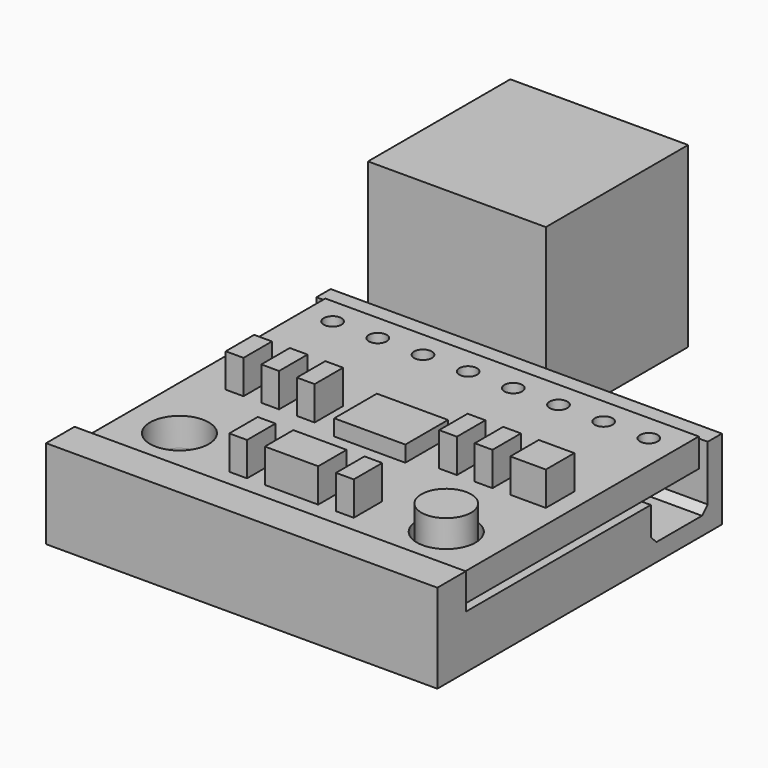
from build123d import *

# Parameters (mm, degrees)
BOX016_W          = 10
BOX016_H          = 10
BOX016_DEPTH      = 10
BOX001_W          = 4
BOX001_H          = 3
BOX001_DEPTH      = 2.5
BOX002_W          = 3
BOX002_H          = 2
BOX002_DEPTH      = 3.5
BOX003_W          = 1
BOX003_H          = 2
BOX003_DEPTH      = 3.5
BOX004_W          = 1
BOX004_H          = 2
BOX004_DEPTH      = 3.5
BOX005_W          = 1
BOX005_H          = 2
BOX005_DEPTH      = 3.5
BOX006_W          = 1
BOX006_H          = 2
BOX006_DEPTH      = 3.5
BOX007_W          = 1
BOX007_H          = 2
BOX007_DEPTH      = 3.5
BOX008_W          = 1
BOX008_H          = 2
BOX008_DEPTH      = 3.5
BOX009_W          = 1
BOX009_H          = 2
BOX009_DEPTH      = 3.5
BOX010_W          = 2
BOX010_H          = 2
BOX010_DEPTH      = 3.5
CYLINDER007_R     = 0.5
CYLINDER007_DEPTH = 10
CYLINDER008_R     = 0.5
CYLINDER008_DEPTH = 10
CYLINDER006_R     = 0.5
CYLINDER006_DEPTH = 10
CYLINDER005_R     = 0.5
CYLINDER005_DEPTH = 10
CYLINDER004_R     = 0.5
CYLINDER004_DEPTH = 10
CYLINDER003_R     = 0.5
CYLINDER003_DEPTH = 10
CYLINDER002_R     = 0.5
CYLINDER002_DEPTH = 10
CYLINDER009_R     = 0.5
CYLINDER009_DEPTH = 10
CYLINDER001_R     = 1.65
CYLINDER001_DEPTH = 10
CYLINDER_R        = 1.65
CYLINDER_DEPTH    = 10
BOX_W             = 21
BOX_H             = 17
BOX_DEPTH         = 1.6
BOX018_W          = 6
BOX018_H          = 10
BOX018_DEPTH      = 10
BOX017_W          = 3.3
BOX017_H          = 10
BOX017_DEPTH      = 10
CYLINDER014_R     = 1.65
CYLINDER014_DEPTH = 10
CYLINDER011_R     = 3
CYLINDER011_DEPTH = 10
CYLINDER012_R     = 1.4
CYLINDER012_DEPTH = 3
CYLINDER013_R     = 1.65
CYLINDER013_DEPTH = 10
BOX014_W          = 16
BOX014_H          = 12
BOX014_DEPTH      = 10
BOX013_W          = 22
BOX013_H          = 4
BOX013_DEPTH      = 5
CHAMFER_SIZE      = 0.4
BOX011_W          = 22
BOX011_H          = 28
BOX011_DEPTH      = 3
BOX012_W          = 22
BOX012_H          = 2
BOX012_DEPTH      = 5
BOX015_W          = 22
BOX015_H          = 1
BOX015_DEPTH      = 1.5
CHAMFER001_SIZE   = 1
CHAMFER002_SIZE   = 0.4
SKETCH_W          = 7
SKETCH_H          = 8
POCKET_DEPTH      = 4.501


with BuildPart() as cube016:
    # Box016 → Box016 (new body)
    with BuildSketch(Plane(origin=(-12.5, 22.5, -4.5), x_dir=(1, 0, 0), z_dir=(0, 0, 1))):
        with Locations((5, 5)):
            Rectangle(BOX016_W, BOX016_H)
    extrude(amount=BOX016_DEPTH)


with BuildPart() as cube001:
    # Box001 → Box001 (new body)
    with BuildSketch(Plane(origin=(-2, 7, 0), x_dir=(1, 0, 0), z_dir=(0, 0, 1))):
        with Locations((2, 1.5)):
            Rectangle(BOX001_W, BOX001_H)
    extrude(amount=BOX001_DEPTH)


with BuildPart() as cube002:
    # Box002 → Box002 (new body)
    with BuildSketch(Plane(origin=(-1.5, 1.5, 0), x_dir=(1, 0, 0), z_dir=(0, 0, 1))):
        with Locations((1.5, 1)):
            Rectangle(BOX002_W, BOX002_H)
    extrude(amount=BOX002_DEPTH)


with BuildPart() as cube003:
    # Box003 → Box003 (new body)
    with BuildSketch(Plane(origin=(-3.5, 1.5, 0), x_dir=(1, 0, 0), z_dir=(0, 0, 1))):
        with Locations((0.5, 1)):
            Rectangle(BOX003_W, BOX003_H)
    extrude(amount=BOX003_DEPTH)


with BuildPart() as cube004:
    # Box004 → Box004 (new body)
    with BuildSketch(Plane(origin=(2.5, 1.5, 0), x_dir=(1, 0, 0), z_dir=(0, 0, 1))):
        with Locations((0.5, 1)):
            Rectangle(BOX004_W, BOX004_H)
    extrude(amount=BOX004_DEPTH)


with BuildPart() as cube005:
    # Box005 → Box005 (new body)
    with BuildSketch(Plane(origin=(-4.5, 7.5, 0), x_dir=(1, 0, 0), z_dir=(0, 0, 1))):
        with Locations((0.5, 1)):
            Rectangle(BOX005_W, BOX005_H)
    extrude(amount=BOX005_DEPTH)


with BuildPart() as cube006:
    # Box006 → Box006 (new body)
    with BuildSketch(Plane(origin=(-6.5, 7.5, 0), x_dir=(1, 0, 0), z_dir=(0, 0, 1))):
        with Locations((0.5, 1)):
            Rectangle(BOX006_W, BOX006_H)
    extrude(amount=BOX006_DEPTH)


with BuildPart() as cube007:
    # Box007 → Box007 (new body)
    with BuildSketch(Plane(origin=(-8.5, 7.5, 0), x_dir=(1, 0, 0), z_dir=(0, 0, 1))):
        with Locations((0.5, 1)):
            Rectangle(BOX007_W, BOX007_H)
    extrude(amount=BOX007_DEPTH)


with BuildPart() as cube008:
    # Box008 → Box008 (new body)
    with BuildSketch(Plane(origin=(3.5, 7.5, 0), x_dir=(1, 0, 0), z_dir=(0, 0, 1))):
        with Locations((0.5, 1)):
            Rectangle(BOX008_W, BOX008_H)
    extrude(amount=BOX008_DEPTH)


with BuildPart() as cube009:
    # Box009 → Box009 (new body)
    with BuildSketch(Plane(origin=(5.5, 7.5, 0), x_dir=(1, 0, 0), z_dir=(0, 0, 1))):
        with Locations((0.5, 1)):
            Rectangle(BOX009_W, BOX009_H)
    extrude(amount=BOX009_DEPTH)


with BuildPart() as cube010:
    # Box010 → Box010 (new body)
    with BuildSketch(Plane(origin=(7.5, 7.5, 0), x_dir=(1, 0, 0), z_dir=(0, 0, 1))):
        with Locations((1, 1)):
            Rectangle(BOX010_W, BOX010_H)
    extrude(amount=BOX010_DEPTH)


with BuildPart() as cylinder007:
    # Cylinder007 → Cylinder007 (new body)
    with BuildSketch(Plane(origin=(6.35, 15, 0), x_dir=(1, 0, 0), z_dir=(0, 0, 1))):
        Circle(CYLINDER007_R)
    extrude(amount=CYLINDER007_DEPTH)


with BuildPart() as cylinder008:
    # Cylinder008 → Cylinder008 (new body)
    with BuildSketch(Plane(origin=(8.89, 15, 0), x_dir=(1, 0, 0), z_dir=(0, 0, 1))):
        Circle(CYLINDER008_R)
    extrude(amount=CYLINDER008_DEPTH)


with BuildPart() as cylinder006:
    # Cylinder006 → Cylinder006 (new body)
    with BuildSketch(Plane(origin=(-6.35, 15, 0), x_dir=(1, 0, 0), z_dir=(0, 0, 1))):
        Circle(CYLINDER006_R)
    extrude(amount=CYLINDER006_DEPTH)


with BuildPart() as cylinder005:
    # Cylinder005 → Cylinder005 (new body)
    with BuildSketch(Plane(origin=(-3.81, 15, 0), x_dir=(1, 0, 0), z_dir=(0, 0, 1))):
        Circle(CYLINDER005_R)
    extrude(amount=CYLINDER005_DEPTH)


with BuildPart() as cylinder004:
    # Cylinder004 → Cylinder004 (new body)
    with BuildSketch(Plane(origin=(3.81, 15, 0), x_dir=(1, 0, 0), z_dir=(0, 0, 1))):
        Circle(CYLINDER004_R)
    extrude(amount=CYLINDER004_DEPTH)


with BuildPart() as cylinder003:
    # Cylinder003 → Cylinder003 (new body)
    with BuildSketch(Plane(origin=(1.27, 15, 0), x_dir=(1, 0, 0), z_dir=(0, 0, 1))):
        Circle(CYLINDER003_R)
    extrude(amount=CYLINDER003_DEPTH)


with BuildPart() as cylinder002:
    # Cylinder002 → Cylinder002 (new body)
    with BuildSketch(Plane(origin=(-1.27, 15, 0), x_dir=(1, 0, 0), z_dir=(0, 0, 1))):
        Circle(CYLINDER002_R)
    extrude(amount=CYLINDER002_DEPTH)


with BuildPart() as fusion001:
    # Cylinder009 → Cylinder009 (new body)
    with BuildSketch(Plane(origin=(-8.89, 15, 0), x_dir=(1, 0, 0), z_dir=(0, 0, 1))):
        Circle(CYLINDER009_R)
    extrude(amount=CYLINDER009_DEPTH)

    # Fusion001: union Cylinder007, Cylinder008, Cylinder006, Cylinder005, Cylinder004, Cylinder003, Cylinder002
    add(cylinder007.part)
    add(cylinder008.part)
    add(cylinder006.part)
    add(cylinder005.part)
    add(cylinder004.part)
    add(cylinder003.part)
    add(cylinder002.part)


with BuildPart() as fusion001_1:
    # Fusion001 placement: moved
    add(fusion001.part.moved(Location((0, 0.5, 0))))


with BuildPart() as cylinder001:
    # Cylinder001 → Cylinder001 (new body)
    with BuildSketch(Plane(origin=(7.5, 2.5, 0), x_dir=(1, 0, 0), z_dir=(0, 0, 1))):
        Circle(CYLINDER001_R)
    extrude(amount=CYLINDER001_DEPTH)


with BuildPart() as fusion:
    # Cylinder → Cylinder (new body)
    with BuildSketch(Plane(origin=(-7.5, 2.5, 0), x_dir=(1, 0, 0), z_dir=(0, 0, 1))):
        Circle(CYLINDER_R)
    extrude(amount=CYLINDER_DEPTH)

    # Fusion: union Cylinder001
    add(cylinder001.part)


with BuildPart() as fusion_1:
    # Fusion placement: moved
    add(fusion.part.moved(Location((0, 0.5, 0))))


with BuildPart() as obj1:
    # Box → Box (new body)
    with BuildSketch(Plane(origin=(-10.5, 0, 0), x_dir=(1, 0, 0), z_dir=(0, 0, 1))):
        with Locations((10.5, 8.5)):
            Rectangle(BOX_W, BOX_H)
    extrude(amount=BOX_DEPTH)

    # Cut: cut Fusion
    add(fusion_1.part, mode=Mode.SUBTRACT)

    # Cut008: cut Fusion001
    add(fusion001_1.part, mode=Mode.SUBTRACT)

    # Fusion002007: union Cube001, Cube002, Cube003, Cube004, Cube005, Cube006, Cube007, Cube008, Cube009, Cube010
    add(cube001.part)
    add(cube002.part)
    add(cube003.part)
    add(cube004.part)
    add(cube005.part)
    add(cube006.part)
    add(cube007.part)
    add(cube008.part)
    add(cube009.part)
    add(cube010.part)


with BuildPart() as cube018:
    # Box018 → Box018 (new body)
    with BuildSketch(Plane(origin=(-10.5, 22.5, -1.5), x_dir=(1, 0, 0), z_dir=(0, 0, 1))):
        with Locations((3, 5)):
            Rectangle(BOX018_W, BOX018_H)
    extrude(amount=BOX018_DEPTH)


with BuildPart() as cube017:
    # Box017 → Box017 (new body)
    with BuildSketch(Plane(origin=(-9.15, 22.5, -11.5), x_dir=(1, 0, 0), z_dir=(0, 0, 1))):
        with Locations((1.65, 5)):
            Rectangle(BOX017_W, BOX017_H)
    extrude(amount=BOX017_DEPTH)


with BuildPart() as cylinder014:
    # Cylinder014 → Cylinder014 (new body)
    with BuildSketch(Plane(origin=(-7.5, 22.5, -6.5), x_dir=(1, 0, 0), z_dir=(0, 0, 1))):
        Circle(CYLINDER014_R)
    extrude(amount=CYLINDER014_DEPTH)


with BuildPart() as cylinder011:
    # Cylinder011 → Cylinder011 (new body)
    with BuildSketch(Plane(origin=(-7.5, 22.5, -1.5), x_dir=(1, 0, 0), z_dir=(0, 0, 1))):
        Circle(CYLINDER011_R)
    extrude(amount=CYLINDER011_DEPTH)


with BuildPart() as cylinder012:
    # Cylinder012 → Cylinder012 (new body)
    with BuildSketch(Plane(origin=(7.5, 3, 0), x_dir=(1, 0, 0), z_dir=(0, 0, 1))):
        Circle(CYLINDER012_R)
    extrude(amount=CYLINDER012_DEPTH)


with BuildPart() as cylinder013:
    # Cylinder013 → Cylinder013 (new body)
    with BuildSketch(Plane(origin=(-7.5, 3, -3.5), x_dir=(1, 0, 0), z_dir=(0, 0, 1))):
        Circle(CYLINDER013_R)
    extrude(amount=CYLINDER013_DEPTH)


with BuildPart() as cube014:
    # Box014 → Box014 (new body)
    with BuildSketch(Plane(origin=(-4, 18, -4.5), x_dir=(1, 0, 0), z_dir=(0, 0, 1))):
        with Locations((8, 6)):
            Rectangle(BOX014_W, BOX014_H)
    extrude(amount=BOX014_DEPTH)


with BuildPart() as chamfer_body:
    # Box013 → Box013 (new body)
    with BuildSketch(Plane(origin=(-11, 13, -2), x_dir=(1, 0, 0), z_dir=(0, 0, 1))):
        with Locations((11, 2)):
            Rectangle(BOX013_W, BOX013_H)
    extrude(amount=BOX013_DEPTH)

    # Chamfer
    chamfer_edges = [chamfer_body.edges().sort_by_distance(p)[0] for p in [
        (0, 13, -2),
        (0, 17, -2),
    ]]
    chamfer(chamfer_edges, length=CHAMFER_SIZE)


with BuildPart() as cut011:
    # Box011 → Box011 (new body)
    with BuildSketch(Plane(origin=(-11, -2, -3), x_dir=(1, 0, 0), z_dir=(0, 0, 1))):
        with Locations((11, 14)):
            Rectangle(BOX011_W, BOX011_H)
    extrude(amount=BOX011_DEPTH)

    # Cut002: cut Chamfer body
    add(chamfer_body.part, mode=Mode.SUBTRACT)

    # Cut003: cut Cube014
    add(cube014.part, mode=Mode.SUBTRACT)

    # Cut009: cut Cylinder013
    add(cylinder013.part, mode=Mode.SUBTRACT)

    # Fusion002008: union Cylinder012
    add(cylinder012.part)

    # Cut010: cut Cylinder011
    add(cylinder011.part, mode=Mode.SUBTRACT)

    # Cut011: cut Cylinder014
    add(cylinder014.part, mode=Mode.SUBTRACT)


with BuildPart() as cube012:
    # Box012 → Box012 (new body)
    with BuildSketch(Plane(origin=(-11, -2, -3), x_dir=(1, 0, 0), z_dir=(0, 0, 1))):
        with Locations((11, 1)):
            Rectangle(BOX012_W, BOX012_H)
    extrude(amount=BOX012_DEPTH)


with BuildPart() as body:
    # Box015 → Box015 (new body)
    with BuildSketch(Plane(origin=(-11, 17, 0), x_dir=(1, 0, 0), z_dir=(0, 0, 1))):
        with Locations((11, 0.5)):
            Rectangle(BOX015_W, BOX015_H)
    extrude(amount=BOX015_DEPTH)

    # Fusion002009: union Cut011, Cube012
    add(cut011.part)
    add(cube012.part)

    # Chamfer001
    chamfer001_edges = [body.edges().sort_by_distance(p)[0] for p in [
        (-7.5, 18, 0),
    ]]
    chamfer(chamfer001_edges, length=CHAMFER001_SIZE)

    # Cut012: cut Cube017
    add(cube017.part, mode=Mode.SUBTRACT)

    # Cut013: cut Cube018
    add(cube018.part, mode=Mode.SUBTRACT)

    # Chamfer002
    chamfer002_edges = [body.edges().sort_by_distance(p)[0] for p in [
        (-9.15, 26, -2.25),
        (-9.825, 26, -1.5),
        (-5.85, 26, -2.25),
        (-5.175, 26, -1.5),
    ]]
    chamfer(chamfer002_edges, length=CHAMFER002_SIZE)

    # Sketch (on Face39 of BaseFeature) → Pocket (cut, through all)
    with BuildSketch(Plane.XY.offset(1.5)):
        with Locations((-7.5, 22)):
            Rectangle(SKETCH_W, SKETCH_H)
    extrude(amount=-POCKET_DEPTH, mode=Mode.SUBTRACT)


solid = Compound([cube016.part, obj1.part, body.part])
